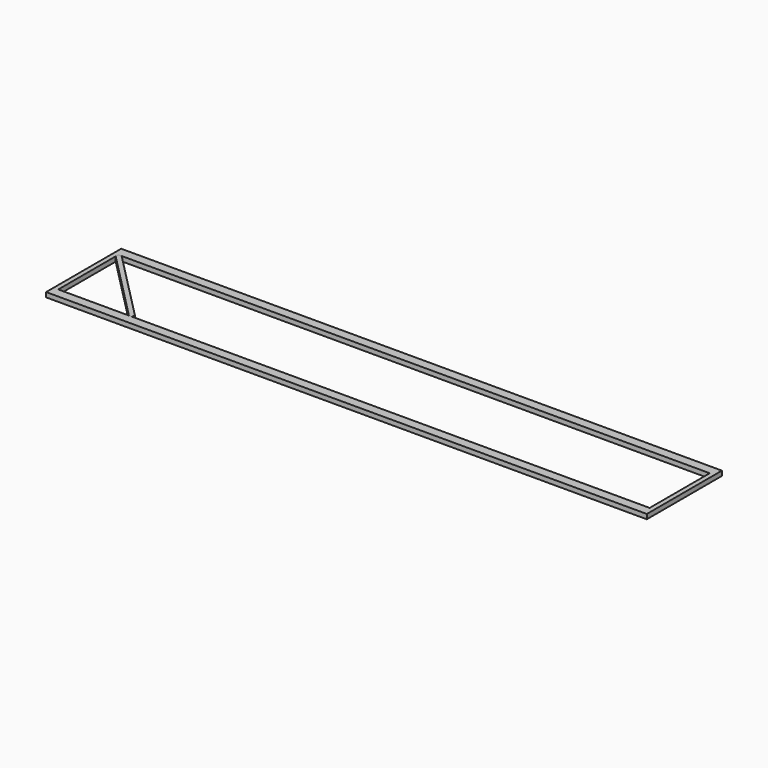
from build123d import *

# Parameters (mm, degrees)
F0_W     = 406.4
F0_H     = 63.5
F0_W_2   = 400.05
F0_H_2   = 50.8
F1_DEPTH = 3.175
F3_DEPTH = 3.175


with BuildPart() as f1:
    # F0 (on Top) → F1 (new body)
    with BuildSketch(Plane.XY):
        with Locations((203.2, 31.75)):
            Rectangle(F0_W, F0_H)
        with Locations((203.2, 31.75)):
            Rectangle(F0_W_2, F0_H_2, mode=Mode.SUBTRACT)
    extrude(amount=F1_DEPTH)


with BuildPart() as f3:
    # F2 (on face) → F3 (new body)
    with BuildSketch(Plane.XY.offset(3.175)):
        Polygon((50.953656, 6.35), (53.18125, 6.35), (53.18125, 8.612952), (5.402594, 57.15), (3.175, 57.15), (3.175, 54.887048), align=None)
    extrude(amount=-F3_DEPTH)


solid = Compound([f1.part, f3.part])
